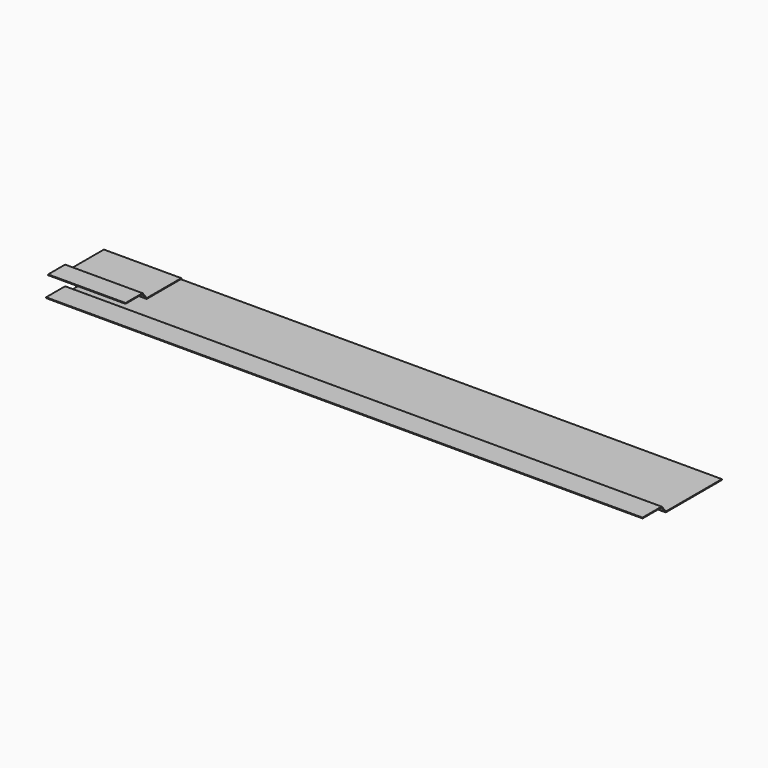
from build123d import *

# Parameters (mm, degrees)
F1_DEPTH = 2312
F3_DEPTH = 300


with BuildPart() as f1:
    # F0 (on Right) → F1 (new body)
    with BuildSketch(Plane.YZ):
        with BuildLine():
            Line((91.077501, 0), (0, 0))
            Line((0, 0), (0, -3))
            Line((0, -3), (89.635626, -3))
            ThreePointArc((89.635626, -3), (91.368381, -3.394787), (92.759101, -4.50122))
            Line((92.759101, -4.50122), (110.35715, -26.49878))
            ThreePointArc((110.35715, -26.49878), (111.74787, -27.605213), (113.480625, -28))
            Line((113.480625, -28), (384.5, -28))
            Line((384.5, -28), (384.5, -25))
            Line((384.5, -25), (114.922499, -25))
            ThreePointArc((114.922499, -25), (113.189744, -24.605213), (111.799024, -23.49878))
            Line((111.799024, -23.49878), (94.200976, -1.50122))
            ThreePointArc((94.200976, -1.50122), (92.810256, -0.394787), (91.077501, 0))
        make_face()
    extrude(amount=F1_DEPTH)


with BuildPart() as f3:
    # F2 (on Right) → F3 (new body)
    with BuildSketch(Plane.YZ):
        with BuildLine():
            Line((91.077501, 74.000002), (10, 74.000002))
            Line((10, 74.000002), (10, 71.000002))
            Line((10, 71.000002), (89.635626, 71.000002))
            ThreePointArc((89.635626, 71.000002), (91.368381, 70.605215), (92.759101, 69.498783))
            Line((92.759101, 69.498783), (110.35715, 47.501222))
            ThreePointArc((110.35715, 47.501222), (111.74787, 46.394789), (113.480625, 46.000002))
            Line((113.480625, 46.000002), (280, 46.000002))
            Line((280, 46.000002), (280, 49.000002))
            Line((280, 49.000002), (114.922499, 49.000002))
            ThreePointArc((114.922499, 49.000002), (113.189744, 49.394789), (111.799024, 50.501222))
            Line((111.799024, 50.501222), (94.200976, 72.498783))
            ThreePointArc((94.200976, 72.498783), (92.810256, 73.605215), (91.077501, 74.000002))
        make_face()
    extrude(amount=F3_DEPTH)


solid = Compound([f1.part, f3.part])
